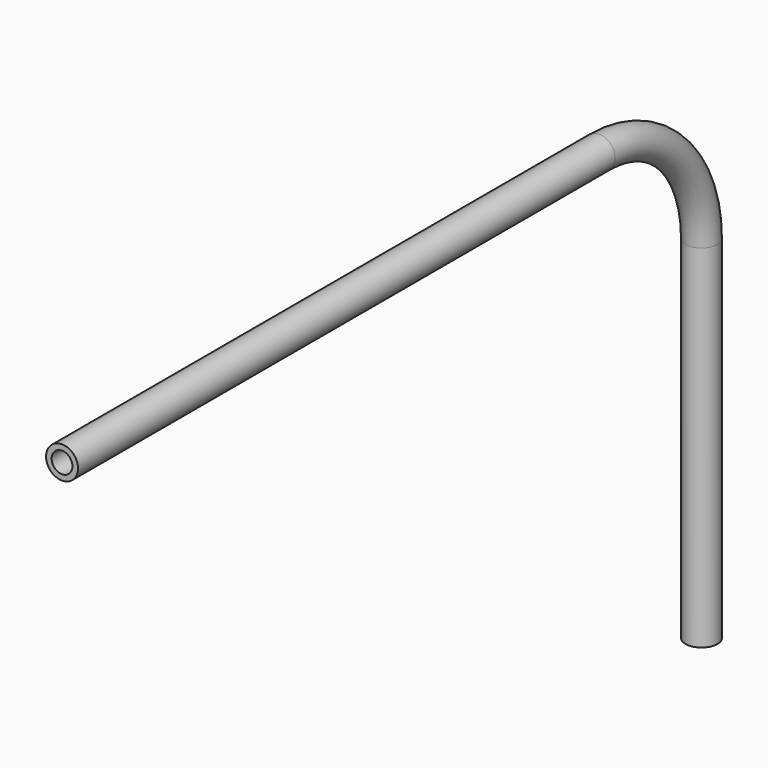
from build123d import *

# Parameters (mm, degrees)
F0_R   = 2
F0_R_2 = 1.3


with BuildPart() as f2:
    # F2: sweep along a path in F1
    with BuildLine(Plane.YZ) as f2_path:
        Line((0, 0), (0, 44))
        ThreePointArc((0, 44), (-4.686291501, 55.313708499), (-16, 60))
        Line((-16, 60), (-100, 60))
    # F0 (on Top) → F2 (sweep)
    with BuildSketch(Plane.XY):
        Circle(F0_R)
        Circle(F0_R_2, mode=Mode.SUBTRACT)
    sweep(path=f2_path.line)


solid = f2.part
